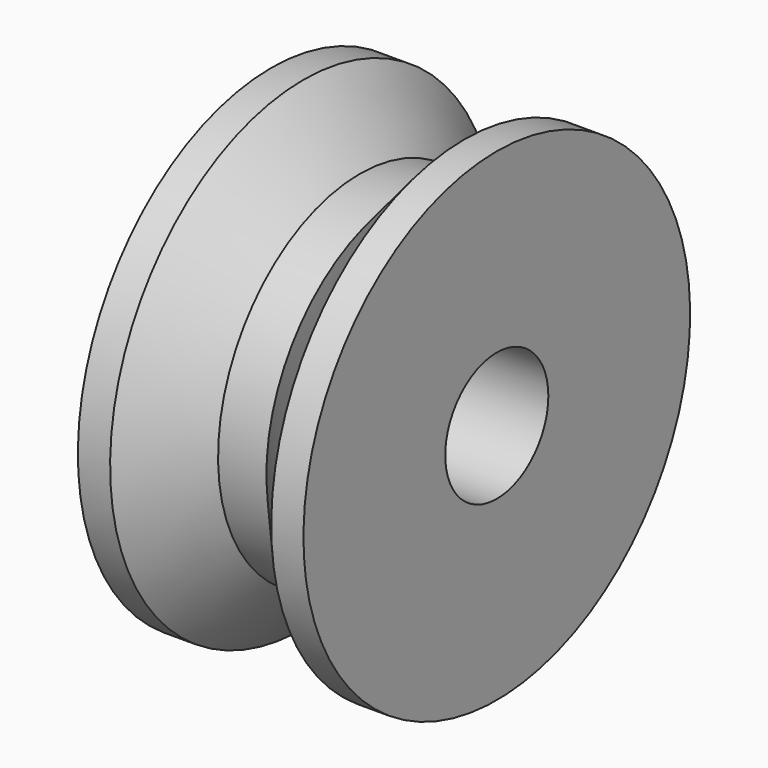
from build123d import *

# Parameters (mm, degrees)
F1_R     = 4
F3_DEPTH = 12.5


with BuildPart() as f2:
    # F0 (on Front) → F2 (revolve)
    with BuildSketch(Plane.XZ):
        Polygon((0, 11), (0, 0), (7, 0), (7, 15), (5, 15), (1.5, 11), align=None)
        Polygon((-7, 0), (0, 0), (0, 11), (-1.5, 11), (-5, 15), (-7, 15), align=None)
    revolve(axis=Axis((0, 0, 0), (1, 0, 0)))

    # F1 (on Right) → F3 (cut, symmetric)
    with BuildSketch(Plane.YZ):
        Circle(F1_R)
    extrude(amount=F3_DEPTH, both=True, mode=Mode.SUBTRACT)


solid = f2.part
